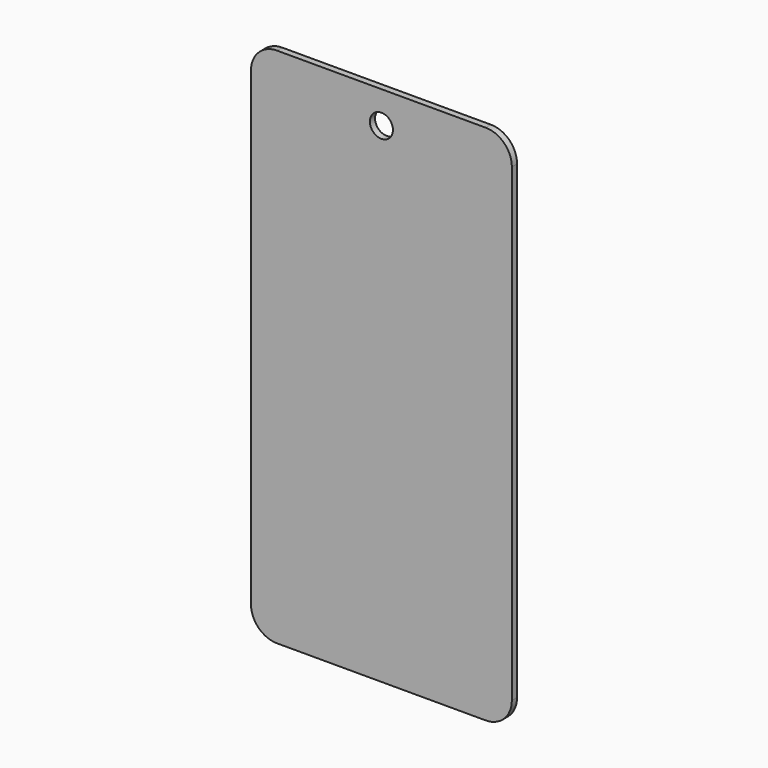
from build123d import *

# Parameters (mm, degrees)
F0_R     = 2.247709
F1_DEPTH = 1.27
F2_R     = 5.08


with BuildPart() as f1:
    # F0 (on Front) → F1 (new body)
    with BuildSketch(Plane.XZ):
        Polygon((0, -50.8), (0, 0), (0, 50.8), (-50.8, 50.8), (-50.8, 0), (-50.8, -50.8), align=None)
        with Locations((-25.4, 44.52955)):
            Circle(F0_R, mode=Mode.SUBTRACT)
    extrude(amount=F1_DEPTH)

    # F2
    f2_edges = [f1.edges().sort_by_distance(p)[0] for p in [
        (0, -0.635, 50.8),
        (-50.8, -0.635, 50.8),
        (-50.8, -0.635, -50.8),
        (0, -0.635, -50.8),
    ]]
    fillet(f2_edges, radius=F2_R)


solid = f1.part
